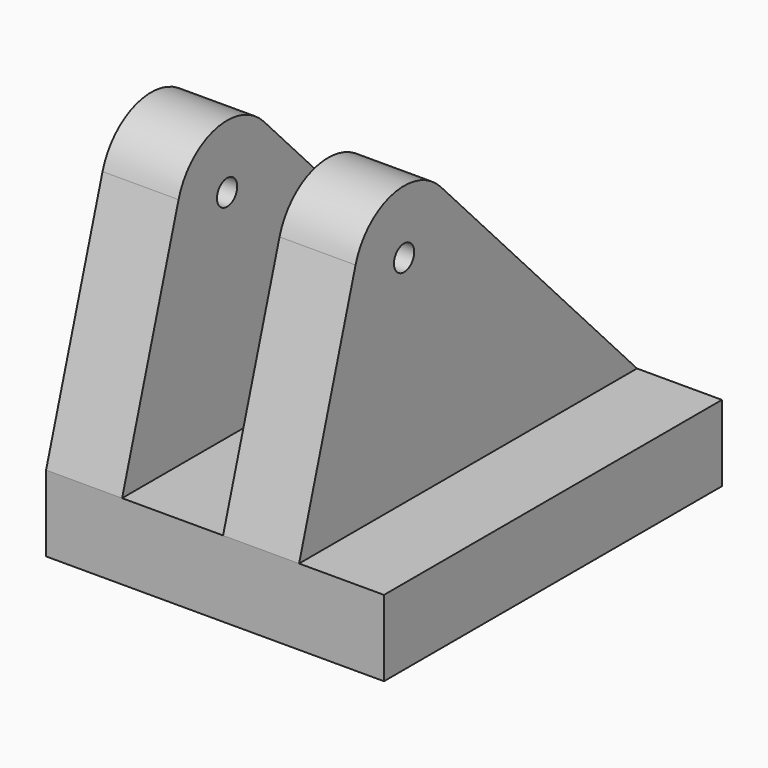
from build123d import *

# Parameters (mm, degrees)
F0_W     = 80
F0_H     = 100
F1_DEPTH = 18
F2_W     = 18
F2_H     = 100
F3_DEPTH = 70
F5_DEPTH = 25
F6_D     = 6


with BuildPart() as f1:
    # F0 (on Top) → F1 (new body)
    with BuildSketch(Plane.XY):
        with Locations((-5.048268, -11.044001)):
            Rectangle(F0_W, F0_H)
    extrude(amount=F1_DEPTH)


with BuildPart() as f3:
    # F2 (on face) → F3 (new body)
    with BuildSketch(Plane.XY.offset(18)):
        with Locations((-36.048268, -11.044001)):
            Rectangle(F2_W, F2_H)
    extrude(amount=F3_DEPTH)

    # F4 (on face) → F5 (cut)
    with BuildSketch(Plane(origin=(-45.048268, 0, 0), x_dir=(0, -1, 0), z_dir=(-1, 0, 0))):
        with BuildLine():
            ThreePointArc((19.073228, 79.400494), (33.426723, 83.694826), (44.336607, 73.4265))
            Line((44.336607, 73.4265), (61.044001, 18))
            Line((61.044001, 18), (61.044001, 88))
            Line((61.044001, 88), (-38.955999, 88))
            Line((-38.955999, 88), (-38.955999, 18))
            Line((-38.955999, 18), (19.073228, 79.400494))
        make_face()
    extrude(amount=-F5_DEPTH, mode=Mode.SUBTRACT)

    # F6 (through all)
    with Locations(Plane(origin=(-45.048268, 0, 0), x_dir=(0, -1, 0), z_dir=(-1, 0, 0))):
        with Locations((29.974891, 69.0974)):
            Hole(F6_D / 2)


with BuildPart() as f7_1:
    # F7: copy of F3
    add(f3.part.moved(Location((41.9, 0, 0))))


solid = Compound([f1.part, f3.part, f7_1.part])
